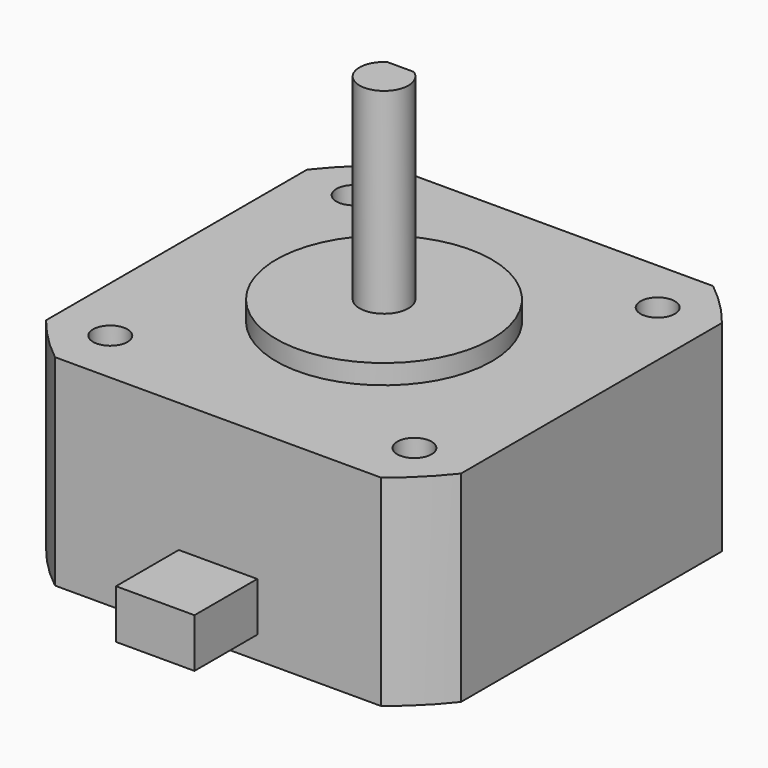
from build123d import *

# Parameters (mm, degrees)
SKETCH001_W          = 5
SKETCH001_H          = 1
POCKET_DEPTH         = 16.5
SKETCH002_R          = 55
SKETCH002_W          = 42.3
SKETCH002_H          = 42.3
POCKET001_DEPTH      = 0.001
POCKET001_DEPTH_BACK = -42.501
SKETCH003_R          = 1.75
POCKET002_DEPTH      = 5
SKETCH004_W          = 8
SKETCH004_H          = 8
PAD_DEPTH            = 5


with BuildPart() as part:
    # Sketch → Revolution (revolve)
    with BuildSketch(Plane.XZ):
        Polygon((0, 0), (26.9, 0), (26.9, 20.5), (10.9875, 20.5), (10.9875, 22.5), (2.497, 22.5), (2.497, 42.5), (0, 42.5), align=None)
    revolve(axis=Axis((0, 0, 0), (0, 0, 1)))

    # Sketch001 → Pocket (cut)
    with BuildSketch(Plane.XY.offset(42.5)):
        with Locations((0, 2.6)):
            Rectangle(SKETCH001_W, SKETCH001_H)
    extrude(amount=-POCKET_DEPTH, mode=Mode.SUBTRACT)

    # Sketch002 → Pocket001 (cut, two sides)
    with BuildSketch(Plane.XY) as pocket001_sk:
        Circle(SKETCH002_R)
        Rectangle(SKETCH002_W, SKETCH002_H, mode=Mode.SUBTRACT)
    extrude(amount=-POCKET001_DEPTH, mode=Mode.SUBTRACT)
    extrude(pocket001_sk.sketch, amount=-POCKET001_DEPTH_BACK, mode=Mode.SUBTRACT)

    # Sketch003 (on Face10 of Pocket001) → Pocket002 (cut)
    with BuildSketch(Plane(origin=(0, 0, 20.5), x_dir=(-1, 0, 0), z_dir=(0, 0, 1))):
        with Locations((-15.5, 15.5)):
            Circle(SKETCH003_R)
        with Locations((15.5, 15.5)):
            Circle(SKETCH003_R)
        with Locations((15.5, -15.5)):
            Circle(SKETCH003_R)
        with Locations((-15.5, -15.5)):
            Circle(SKETCH003_R)
    extrude(amount=-POCKET002_DEPTH, mode=Mode.SUBTRACT)

    # Sketch004 → Pad (join)
    with BuildSketch(Plane.XY.offset(2.3)):
        with Locations((0, -25.15)):
            Rectangle(SKETCH004_W, SKETCH004_H)
    extrude(amount=PAD_DEPTH)


solid = part.part
